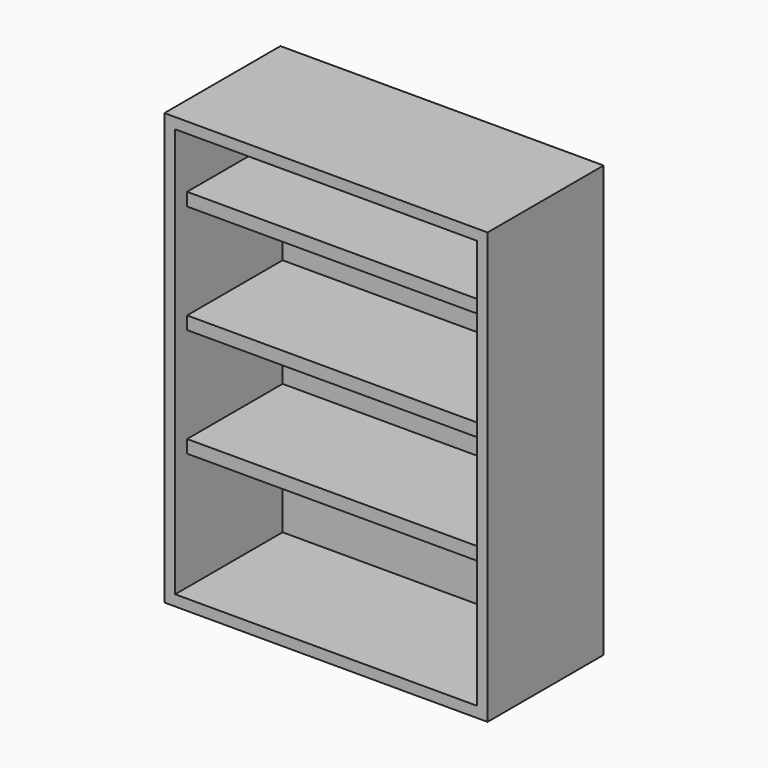
from build123d import *

# Parameters (mm, degrees)
F0_W     = 76.2
F0_H     = 101.6
F1_DEPTH = 34.20233
F2_T     = -2.54
F3_W     = 71.12
F3_H     = 3.048
F4_DEPTH = 28.1459


with BuildPart() as f1:
    # F0 (on Front) → F1 (new body)
    with BuildSketch(Plane.XZ):
        with Locations((-38.1, 50.8)):
            Rectangle(F0_W, F0_H)
    extrude(amount=F1_DEPTH)

    # F2
    f2_openings = [f1.faces().sort_by_distance(p)[0] for p in [
        (-38.1, -34.20233, 50.8),
    ]]
    offset(amount=F2_T, openings=f2_openings)


with BuildPart() as f4:
    # F3 (on face) → F4 (new body)
    with BuildSketch(Plane.XZ.offset(2.54)):
        with Locations((-38.1, 57.476429)):
            Rectangle(F3_W, F3_H)
        with Locations((-38.1, 31.822429)):
            Rectangle(F3_W, F3_H)
        with Locations((-38.1, 83.130429)):
            Rectangle(F3_W, F3_H)
    extrude(amount=F4_DEPTH)


solid = Compound([f1.part, f4.part])
